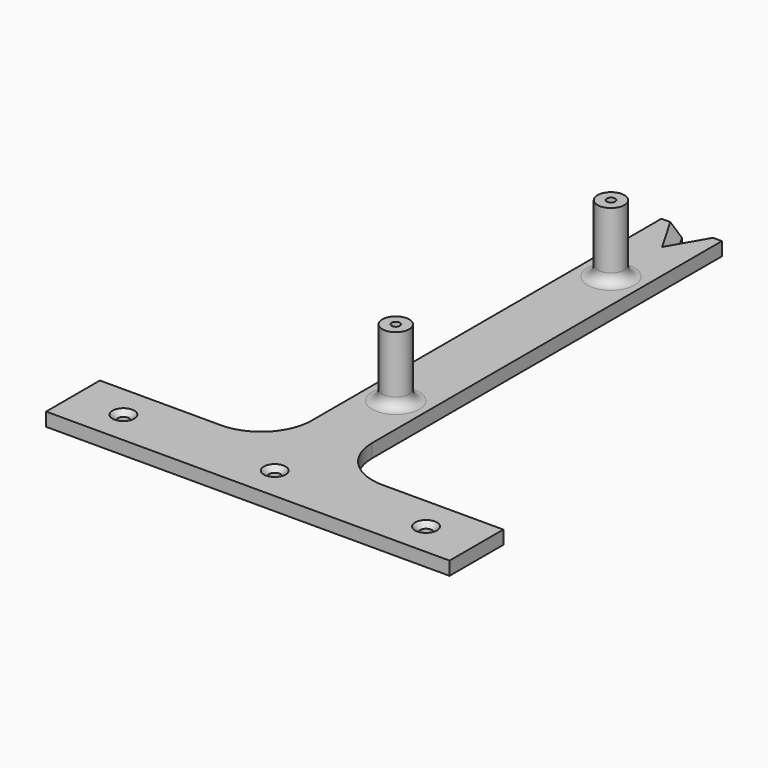
from build123d import *

# Parameters (mm, degrees)
SKETCH_R        = 1.75
SKETCH_R_2      = 1.25
PAD_DEPTH       = 4
SKETCH001_R     = 4
SKETCH001_R_2   = 1.25
PAD001_DEPTH    = 20
FILLET_R        = 3
FILLET001_R     = 3
CHAMFER_SIZE    = 1.5
CHAMFER001_SIZE = 3


with BuildPart() as part:
    # Sketch → Pad (new body)
    with BuildSketch(Plane.XY):
        with BuildLine():
            Line((-24, 0), (-60, 0))
            Line((-60, 0), (-60, -20))
            Line((-60, -20), (60, -20))
            Line((60, -20), (60, 0))
            Line((60, 0), (24, 0))
            ThreePointArc((9, 15), (13.393398, 4.393398), (24, 0))
            Line((9, 145), (9, 15))
            Line((2.886751, 145), (9, 145))
            Line((0, 140), (2.886751, 145))
            Line((-2.886751, 145), (0, 140))
            Line((-9, 145), (-2.886751, 145))
            Line((-9, 15), (-9, 145))
            ThreePointArc((-24, 0), (-13.393398, 4.393398), (-9, 15))
        make_face()
        with Locations((-45, -10)):
            Circle(SKETCH_R, mode=Mode.SUBTRACT)
        with Locations((45, -10)):
            Circle(SKETCH_R, mode=Mode.SUBTRACT)
        with Locations((0, -10)):
            Circle(SKETCH_R, mode=Mode.SUBTRACT)
        with Locations((0, 35)):
            Circle(SKETCH_R_2, mode=Mode.SUBTRACT)
        with Locations((0, 115)):
            Circle(SKETCH_R_2, mode=Mode.SUBTRACT)
    extrude(amount=PAD_DEPTH)

    # Sketch001 (on Face20 of Pad) → Pad001 (join)
    with BuildSketch(Plane.XY.offset(4)):
        with Locations((0, 115)):
            Circle(SKETCH001_R)
        with Locations((0, 115)):
            Circle(SKETCH001_R_2, mode=Mode.SUBTRACT)
        with Locations((0, 35)):
            Circle(SKETCH001_R)
        with Locations((0, 35)):
            Circle(SKETCH001_R_2, mode=Mode.SUBTRACT)
    extrude(amount=PAD001_DEPTH)

    # Fillet
    fillet_edges = [part.edges().sort_by_distance(p)[0] for p in [
        (-4, 115, 4),
    ]]
    fillet(fillet_edges, radius=FILLET_R)

    # Fillet001
    fillet001_edges = [part.edges().sort_by_distance(p)[0] for p in [
        (-4, 35, 4),
    ]]
    fillet(fillet001_edges, radius=FILLET001_R)

    # Chamfer
    chamfer_edges = [part.edges().sort_by_distance(p)[0] for p in [
        (43.25, -10, 4),
        (-1.75, -10, 4),
        (-46.75, -10, 4),
    ]]
    chamfer(chamfer_edges, length=CHAMFER_SIZE)

    # Chamfer001
    chamfer001_edges = [part.edges().sort_by_distance(p)[0] for p in [
        (1.443376, 142.5, 4),
        (-1.443376, 142.5, 4),
    ]]
    chamfer(chamfer001_edges, length=CHAMFER001_SIZE)


solid = part.part
